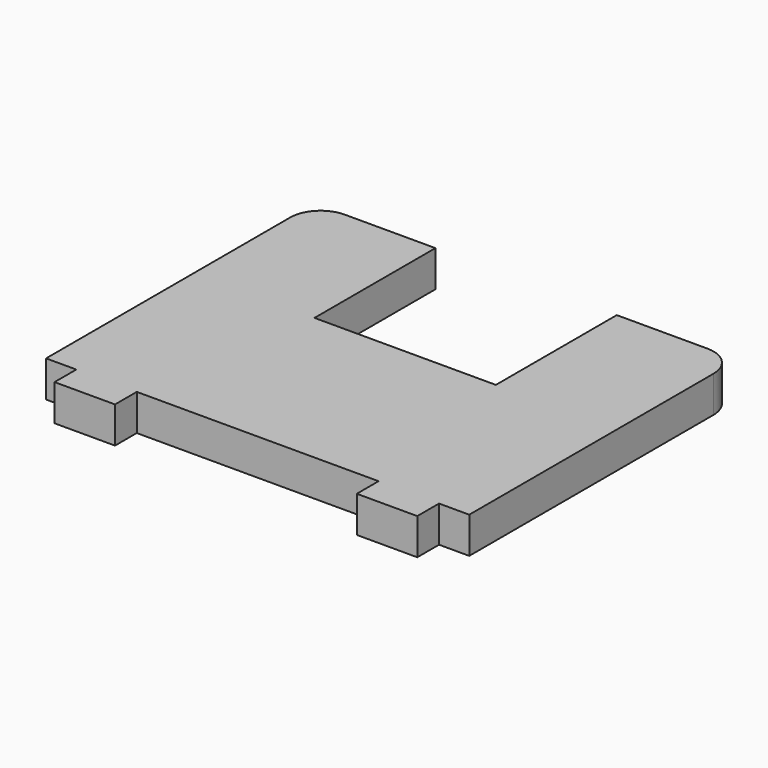
from build123d import *

# Parameters (mm, degrees)
F1_DEPTH = 6


with BuildPart() as f1:
    # F0 (on Top) → F1 (new body)
    with BuildSketch(Plane.XY):
        with BuildLine():
            Line((-35, 20), (-35, -30.5))
            Line((-35, -30.5), (-30, -30.5))
            Line((-30, -30.5), (-30, -35))
            Line((-30, -35), (-20, -35))
            Line((-20, -35), (-20, -30.5))
            Line((-20, -30.5), (20, -30.5))
            Line((20, -30.5), (20, -35))
            Line((20, -35), (30, -35))
            Line((30, -35), (30, -30.5))
            Line((30, -30.5), (35, -30.5))
            Line((35, -30.5), (35, 20))
            ThreePointArc((35, 20), (33.535534, 23.535534), (30, 25))
            Line((30, 25), (15, 25))
            Line((15, 25), (15, 0))
            Line((15, 0), (-15, 0))
            Line((-15, 0), (-15, 25))
            Line((-15, 25), (-30, 25))
            ThreePointArc((-30, 25), (-33.535534, 23.535534), (-35, 20))
        make_face()
    extrude(amount=F1_DEPTH)


solid = f1.part
